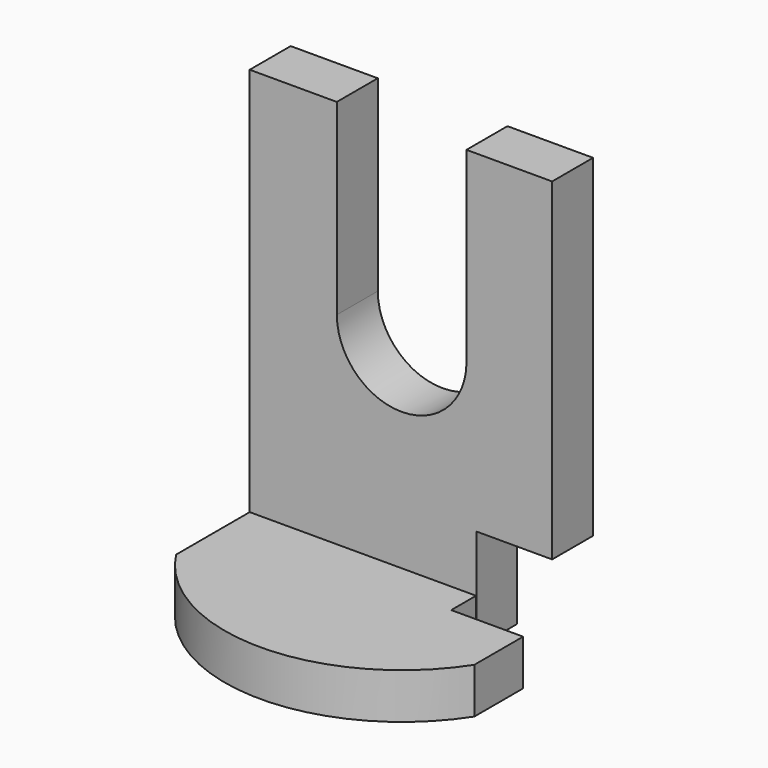
from build123d import *

# Parameters (mm, degrees)
F1_DEPTH = 25.4
F3_DEPTH = 22.606


with BuildPart() as f1:
    # F0 (on Front) → F1 (new body)
    with BuildSketch(Plane.XZ):
        with BuildLine():
            Line((4.654405, 101.662926), (-38.54106, 101.662926))
            Line((-38.54106, 101.662926), (-38.54106, -114.071727))
            Line((-38.54106, -114.071727), (73.815681, -114.071727))
            Line((73.815681, -114.071727), (73.815681, -63.353464))
            Line((73.815681, -63.353464), (111.429714, -63.353464))
            Line((111.429714, -63.353464), (111.429714, 101.662926))
            Line((111.429714, 101.662926), (68.962261, 101.662926))
            Line((68.962261, 101.662926), (68.962261, 8.962544))
            ThreePointArc((68.962261, 8.962544), (36.929212, -23.191613), (4.654405, 8.719872))
            Line((4.654405, 8.719872), (4.654405, 101.662926))
        make_face()
    extrude(amount=F1_DEPTH)

    # F2 (on face) → F3 (join)
    with BuildSketch(Plane(origin=(0, 0, -114.071727), x_dir=(1, 0, 0), z_dir=(0, 0, -1))):
        with BuildLine():
            Line((-38.54106, 71.035914), (-38.54106, 0))
            Line((-38.54106, 0), (73.70951, 0))
            Line((73.70951, 0), (73.70951, 40.798619))
            Line((73.70951, 40.798619), (109.369531, 40.798619))
            Line((109.369531, 40.798619), (109.369531, 71.035914))
            ThreePointArc((109.369531, 71.035914), (35.414236, 111.318798), (-38.54106, 71.035914))
        make_face()
    extrude(amount=-F3_DEPTH)


solid = f1.part
